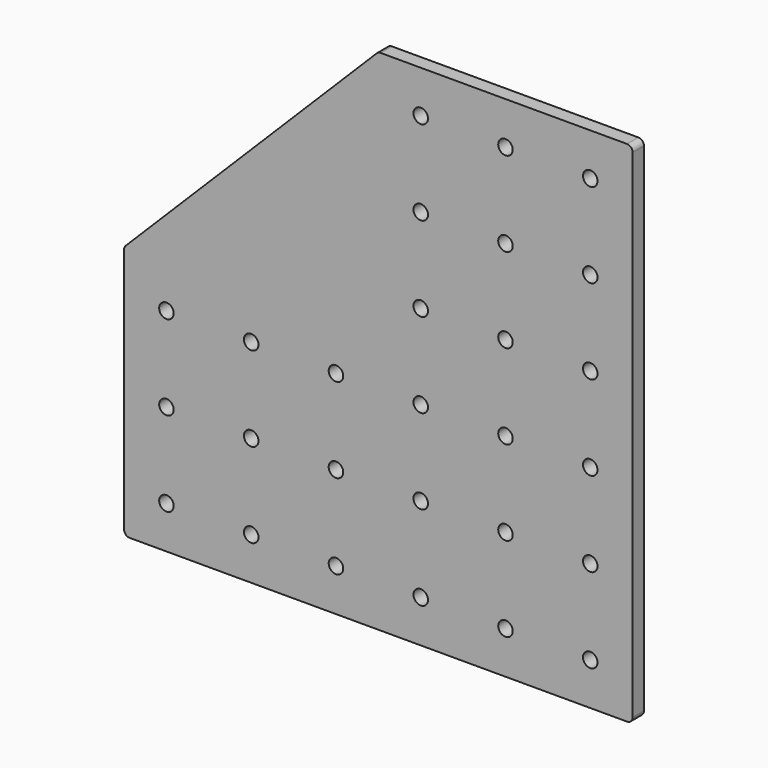
from build123d import *

# Parameters (mm, degrees)
F0_R     = 3.2639
F1_DEPTH = 6.35


with BuildPart() as f1:
    # F0 (on Front) → F1 (new body)
    with BuildSketch(Plane.XZ):
        with BuildLine():
            ThreePointArc((0, 2.54), (0.743949, 0.743949), (2.54, 0))
            Line((2.54, 0), (226.06, 0))
            ThreePointArc((226.06, 0), (227.856051, 0.743949), (228.6, 2.54))
            Line((228.6, 2.54), (228.6, 114.3))
            Line((228.6, 114.3), (228.6, 226.06))
            ThreePointArc((228.6, 226.06), (227.856051, 227.856051), (226.06, 228.6))
            Line((226.06, 228.6), (115.352102, 228.6))
            ThreePointArc((115.352102, 228.6), (114.380087, 228.406654), (113.556051, 227.856051))
            Line((113.556051, 227.856051), (0.743949, 115.043949))
            ThreePointArc((0.743949, 115.043949), (0.193346, 114.219913), (0, 113.247898))
            Line((0, 113.247898), (0, 2.54))
        make_face()
        with Locations((19.05, 19.05)):
            Circle(F0_R, mode=Mode.SUBTRACT)
        with Locations((57.15, 19.05)):
            Circle(F0_R, mode=Mode.SUBTRACT)
        with Locations((95.25, 19.05)):
            Circle(F0_R, mode=Mode.SUBTRACT)
        with Locations((19.05, 57.15)):
            Circle(F0_R, mode=Mode.SUBTRACT)
        with Locations((19.05, 95.25)):
            Circle(F0_R, mode=Mode.SUBTRACT)
        with Locations((57.15, 57.15)):
            Circle(F0_R, mode=Mode.SUBTRACT)
        with Locations((95.25, 57.15)):
            Circle(F0_R, mode=Mode.SUBTRACT)
        with Locations((57.15, 95.25)):
            Circle(F0_R, mode=Mode.SUBTRACT)
        with Locations((95.25, 95.25)):
            Circle(F0_R, mode=Mode.SUBTRACT)
        with Locations((133.35, 19.05)):
            Circle(F0_R, mode=Mode.SUBTRACT)
        with Locations((171.45, 19.05)):
            Circle(F0_R, mode=Mode.SUBTRACT)
        with Locations((209.55, 19.05)):
            Circle(F0_R, mode=Mode.SUBTRACT)
        with Locations((133.35, 57.15)):
            Circle(F0_R, mode=Mode.SUBTRACT)
        with Locations((133.35, 95.25)):
            Circle(F0_R, mode=Mode.SUBTRACT)
        with Locations((171.45, 57.15)):
            Circle(F0_R, mode=Mode.SUBTRACT)
        with Locations((209.55, 57.15)):
            Circle(F0_R, mode=Mode.SUBTRACT)
        with Locations((171.45, 95.25)):
            Circle(F0_R, mode=Mode.SUBTRACT)
        with Locations((209.55, 95.25)):
            Circle(F0_R, mode=Mode.SUBTRACT)
        with Locations((133.35, 133.35)):
            Circle(F0_R, mode=Mode.SUBTRACT)
        with Locations((133.35, 171.45)):
            Circle(F0_R, mode=Mode.SUBTRACT)
        with Locations((171.45, 133.35)):
            Circle(F0_R, mode=Mode.SUBTRACT)
        with Locations((209.55, 133.35)):
            Circle(F0_R, mode=Mode.SUBTRACT)
        with Locations((171.45, 171.45)):
            Circle(F0_R, mode=Mode.SUBTRACT)
        with Locations((209.55, 171.45)):
            Circle(F0_R, mode=Mode.SUBTRACT)
        with Locations((133.35, 209.55)):
            Circle(F0_R, mode=Mode.SUBTRACT)
        with Locations((171.45, 209.55)):
            Circle(F0_R, mode=Mode.SUBTRACT)
        with Locations((209.55, 209.55)):
            Circle(F0_R, mode=Mode.SUBTRACT)
    extrude(amount=F1_DEPTH)


solid = f1.part
